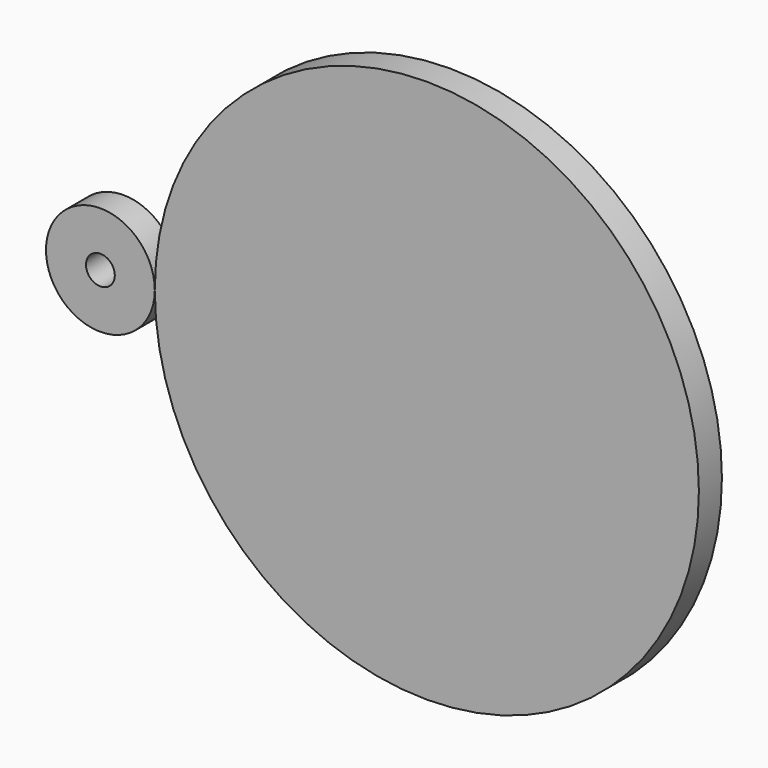
from build123d import *

# Parameters (mm, degrees)
F0_R     = 6
F1_DEPTH = 3.175
F2_R     = 1.5875
F3_DEPTH = 25.4


with BuildPart() as f1:
    # F0 (on Front) → F1 (new body)
    with BuildSketch(Plane.XZ):
        with BuildLine():
            ThreePointArc((66, 0), (36, 30), (6, 0))
            ThreePointArc((6, 0), (36, -30), (66, 0))
        make_face()
        with BuildLine():
            ThreePointArc((37.5875, 0), (36, -1.5875), (34.4125, 0))
            ThreePointArc((34.4125, 0), (36, 1.5875), (37.5875, 0))
        make_face(mode=Mode.SUBTRACT)
        with BuildLine():
            ThreePointArc((37.5875, 0), (36, 1.5875), (34.4125, 0))
            ThreePointArc((34.4125, 0), (36, -1.5875), (37.5875, 0))
        make_face()
        Circle(F0_R)
    extrude(amount=F1_DEPTH)

    # F2 (on face) → F3 (cut)
    with BuildSketch(Plane(origin=(0, 0, 0), x_dir=(-1, 0, 0), z_dir=(0, 1, 0))):
        Circle(F2_R)
    extrude(amount=-F3_DEPTH, mode=Mode.SUBTRACT)


solid = f1.part
